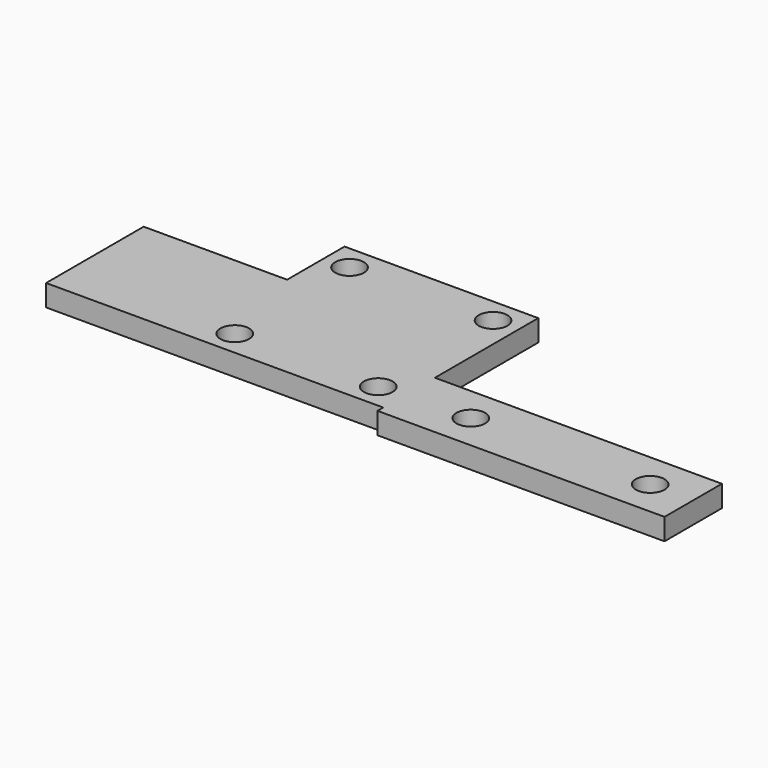
from build123d import *

# Parameters (mm, degrees)
F0_W     = 20
F0_H     = 20
F1_DEPTH = 3
F2_D     = 4
F0_H_2   = 7
F0_H_3   = 10
F3_DEPTH = 3


with BuildPart() as f1:
    # F0 (on Top) → F1 (new body)
    with BuildSketch(Plane.XY):
        Polygon((-13.5, -4), (13.5, -4), (13.5, 5), (13.5, 23), (-13.5, 23), (-13.5, 13), (-13.5, 6), align=None)
        with Locations((0, 9.5)):
            Rectangle(F0_W, F0_H, mode=Mode.SUBTRACT)
        with Locations((0, 9.5)):
            Rectangle(F0_W, F0_H)
        Polygon((13.5, 5), (13.5, -4), (13.5, -5), (53.5, -5), (53.5, 5), align=None)
        Polygon((13.5, 5), (13.5, -4), (13.5, -5), (53.5, -5), (53.5, 5), align=None)
    extrude(amount=-F1_DEPTH)

    # F2 (through all)
    with Locations(Plane.XY):
        with Locations((-10, -0.5), (-10, 19.5), (10, -0.5), (22.5, 0), (47.5, 0), (10, 19.5)):
            Hole(F2_D / 2)

    # F0 (on Top) → F3 (join)
    with BuildSketch(Plane.XY):
        with Locations((-23.5, 9.5)):
            Rectangle(F0_W, F0_H_2)
        with Locations((-23.5, 1)):
            Rectangle(F0_W, F0_H_3)
    extrude(amount=-F3_DEPTH)


solid = f1.part
